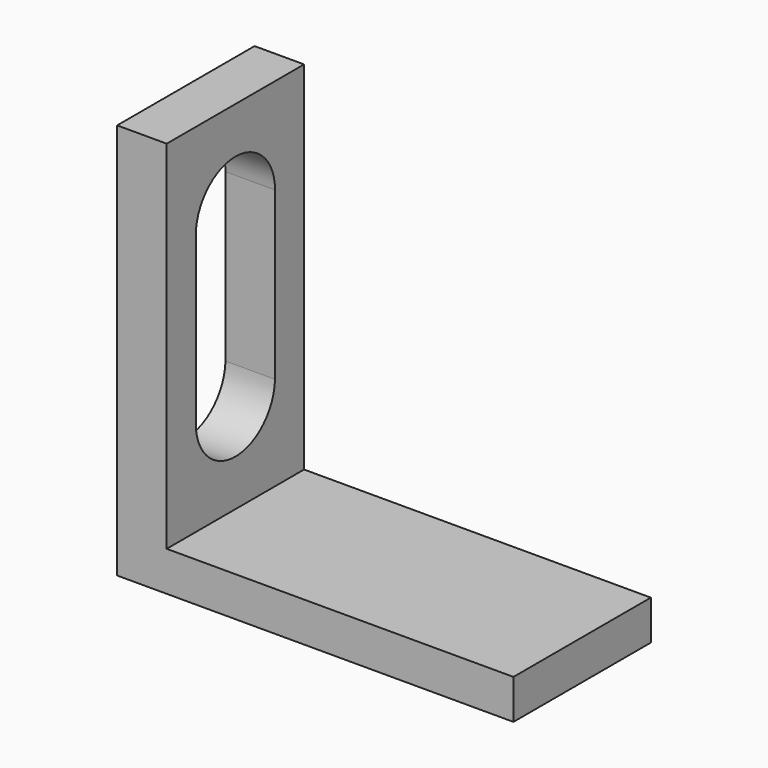
from build123d import *

# Parameters (mm, degrees)
F1_DEPTH = 5.2
F3_DEPTH = 25.4


with BuildPart() as f1:
    # F0 (on Front) → F1 (new body)
    with BuildSketch(Plane.XZ):
        Polygon((1.5, 0), (0, 0), (0, -12), (12, -12), (12, -10.8), (1.5, -10.8), align=None)
    extrude(amount=-F1_DEPTH)

    # F2 (on face) → F3 (cut)
    with BuildSketch(Plane.YZ.offset(1.5)):
        with BuildLine():
            Line((1.1, -2.9), (1.1, -7.9))
            ThreePointArc((1.1, -7.9), (2.575413, -9.400208), (4.1, -7.95))
            Line((4.1, -7.95), (4.1, -2.9))
            ThreePointArc((4.1, -2.9), (2.6, -1.4), (1.1, -2.9))
        make_face()
    extrude(amount=-F3_DEPTH, mode=Mode.SUBTRACT)


solid = f1.part
